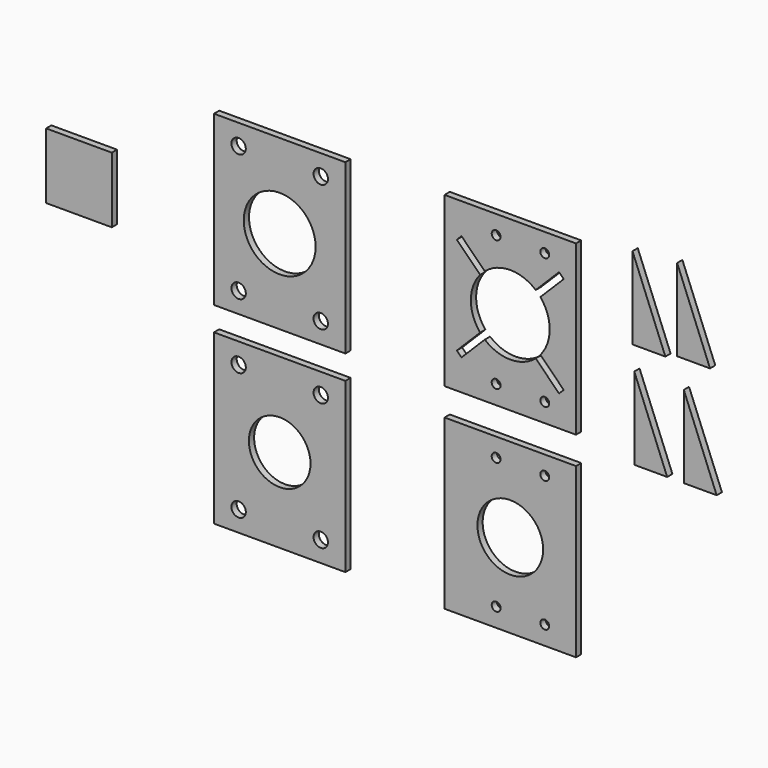
from build123d import *

# Parameters (mm, degrees)
F0_W     = 101.6
F0_H     = 130.175
F0_R     = 5.55625
F0_R_2   = 27.78125
F0_R_3   = 3.429
F0_R_4   = 25.4
F0_R_5   = 23.8125
F0_W_2   = 50.8
F0_H_2   = 50.8
F1_DEPTH = 5.08


with BuildPart() as f1:
    # F0 (on Front) → F1 (new body)
    with BuildSketch(Plane.XZ):
        with Locations((-57.314304, 65.002098)):
            Rectangle(F0_W, F0_H)
        with Locations((-89.064304, 15.789598)):
            Circle(F0_R, mode=Mode.SUBTRACT)
        with Locations((-25.564304, 15.789598)):
            Circle(F0_R, mode=Mode.SUBTRACT)
        with Locations((-57.314304, 65.002098)):
            Circle(F0_R_2, mode=Mode.SUBTRACT)
        with Locations((-89.064304, 114.214598)):
            Circle(F0_R, mode=Mode.SUBTRACT)
        with Locations((-25.564304, 114.214598)):
            Circle(F0_R, mode=Mode.SUBTRACT)
        with Locations((120.930071, 67.713253)):
            Rectangle(F0_W, F0_H)
        with Locations((110.008071, 17.103753)):
            Circle(F0_R_3, mode=Mode.SUBTRACT)
        with Locations((147.600071, 17.103753)):
            Circle(F0_R_3, mode=Mode.SUBTRACT)
        with BuildLine():
            ThreePointArc((144.203771, 87.39485), (149.551853, 78.192948), (151.410071, 67.713253))
            ThreePointArc((151.410071, 67.713253), (149.551853, 57.233558), (144.203771, 48.031655))
            Line((144.203771, 48.031655), (162.239249, 29.996177))
            ThreePointArc((162.239249, 29.996177), (162.239249, 26.404075), (158.647147, 26.404075))
            Line((158.647147, 26.404075), (140.611669, 44.439553))
            ThreePointArc((140.611669, 44.439553), (120.930071, 37.233253), (101.248473, 44.439553))
            Line((101.248473, 44.439553), (83.212995, 26.404075))
            ThreePointArc((83.212995, 26.404075), (79.620893, 26.404075), (79.620893, 29.996177))
            Line((79.620893, 29.996177), (97.656371, 48.031655))
            ThreePointArc((97.656371, 48.031655), (90.450071, 67.713253), (97.656371, 87.39485))
            Line((97.656371, 87.39485), (79.620893, 105.430328))
            ThreePointArc((79.620893, 105.430328), (79.620893, 109.022431), (83.212995, 109.022431))
            Line((83.212995, 109.022431), (101.248473, 90.986953))
            ThreePointArc((101.248473, 90.986953), (120.930071, 98.193253), (140.611669, 90.986953))
            Line((140.611669, 90.986953), (158.647147, 109.022431))
            ThreePointArc((158.647147, 109.022431), (162.239249, 109.022431), (162.239249, 105.430328))
            Line((162.239249, 105.430328), (144.203771, 87.39485))
        make_face(mode=Mode.SUBTRACT)
        with Locations((110.008071, 118.322753)):
            Circle(F0_R_3, mode=Mode.SUBTRACT)
        with Locations((147.600071, 118.322753)):
            Circle(F0_R_3, mode=Mode.SUBTRACT)
        with Locations((120.930071, -83.783946)):
            Rectangle(F0_W, F0_H)
        with Locations((110.008071, -134.393446)):
            Circle(F0_R_3, mode=Mode.SUBTRACT)
        with Locations((147.600071, -134.393446)):
            Circle(F0_R_3, mode=Mode.SUBTRACT)
        with Locations((120.930071, -83.783946)):
            Circle(F0_R_4, mode=Mode.SUBTRACT)
        with Locations((110.008071, -33.174446)):
            Circle(F0_R_3, mode=Mode.SUBTRACT)
        with Locations((147.600071, -33.174446)):
            Circle(F0_R_3, mode=Mode.SUBTRACT)
        with Locations((-57.314304, -83.783946)):
            Rectangle(F0_W, F0_H)
        with Locations((-89.064304, -132.996446)):
            Circle(F0_R, mode=Mode.SUBTRACT)
        with Locations((-25.564304, -132.996446)):
            Circle(F0_R, mode=Mode.SUBTRACT)
        with Locations((-57.314304, -83.783946)):
            Circle(F0_R_5, mode=Mode.SUBTRACT)
        with Locations((-89.064304, -34.571446)):
            Circle(F0_R, mode=Mode.SUBTRACT)
        with Locations((-25.564304, -34.571446)):
            Circle(F0_R, mode=Mode.SUBTRACT)
        Polygon((240.809383, 78.258727), (215.409383, 141.758727), (215.409383, 78.258727), align=None)
        Polygon((275.322852, 81.440644), (249.922852, 144.940644), (249.922852, 81.440644), align=None)
        Polygon((242.20367, -3.197299), (216.80367, 60.302701), (216.80367, -3.197299), align=None)
        Polygon((280.469911, -3.197299), (255.069911, 60.302701), (255.069911, -3.197299), align=None)
        with BuildLine():
            Line((79.620893, 105.430328), (83.212995, 109.022431))
            ThreePointArc((83.212995, 109.022431), (79.620893, 109.022431), (79.620893, 105.430328))
        make_face()
        with BuildLine():
            Line((158.647147, 109.022431), (162.239249, 105.430328))
            ThreePointArc((162.239249, 105.430328), (162.239249, 109.022431), (158.647147, 109.022431))
        make_face()
        with BuildLine():
            ThreePointArc((158.647147, 26.404075), (162.239249, 26.404075), (162.239249, 29.996177))
            Line((162.239249, 29.996177), (158.647147, 26.404075))
        make_face()
        with BuildLine():
            ThreePointArc((79.620893, 29.996177), (79.620893, 26.404075), (83.212995, 26.404075))
            Line((83.212995, 26.404075), (79.620893, 29.996177))
        make_face()
        with Locations((-212.489558, 52.482126)):
            Rectangle(F0_W_2, F0_H_2)
    extrude(amount=F1_DEPTH)


solid = f1.part
